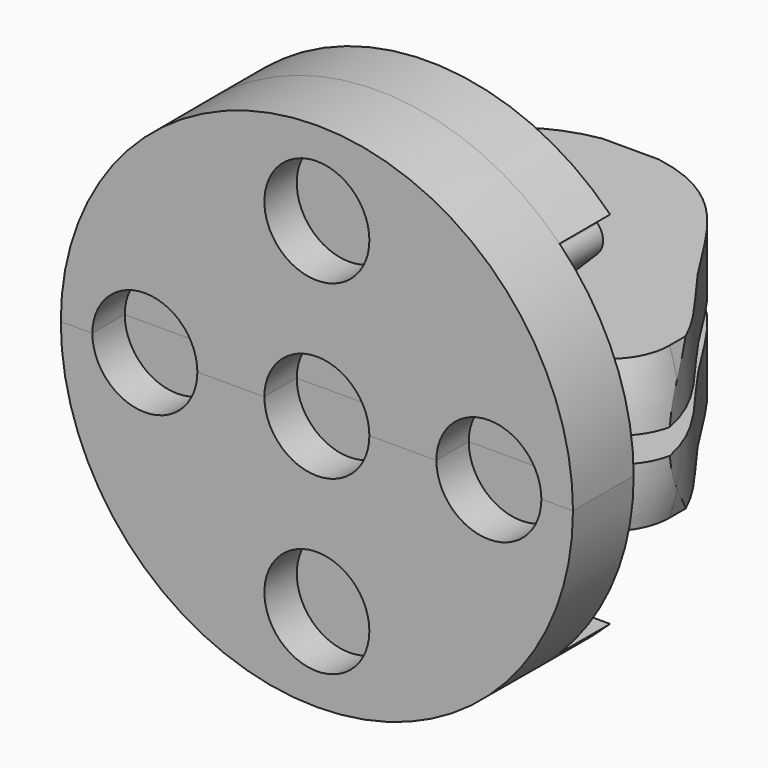
from build123d import *

# Parameters (mm, degrees)
F0_R           = 20.25
F1_DEPTH       = 6
F2_R           = 4.15
F3_DEPTH       = 3.2
F5_DEPTH       = 5
F7_DEPTH       = 25
F9_DEPTH       = 5
F11_DEPTH      = 25
F13_DEPTH      = 25
F15_W          = 1
F15_H          = 28.5
F16_DEPTH      = 20.251
F16_DEPTH_BACK = 20.251
F17_R          = 5


with BuildPart() as f1:
    # F0 (on Front) → F1 (new body)
    with BuildSketch(Plane.XZ):
        Circle(F0_R)
    extrude(amount=F1_DEPTH)

    # F2 (on face) → F3 (cut)
    with BuildSketch(Plane.XZ.offset(6)):
        Circle(F2_R)
        with Locations((0, 13.6)):
            Circle(F2_R)
        with Locations((-13.6, 0)):
            Circle(F2_R)
        with Locations((0, -13.6)):
            Circle(F2_R)
        with Locations((13.6, 0)):
            Circle(F2_R)
    extrude(amount=-F3_DEPTH, mode=Mode.SUBTRACT)

    # F4 (on face) → F5 (join)
    with BuildSketch(Plane(origin=(0, 0, 0), x_dir=(-1, 0, 0), z_dir=(0, 1, 0))):
        with BuildLine():
            Line((-14.3874945699, 14.25), (14.3874945699, 14.25))
            ThreePointArc((14.3874945699, 14.25), (0, 20.25), (-14.3874945699, 14.25))
        make_face()
    extrude(amount=F5_DEPTH)

    # F6 (on face) → F7 (join)
    with BuildSketch(Plane(origin=(0, 0, 0), x_dir=(-1, 0, 0), z_dir=(0, 1, 0))):
        with BuildLine():
            ThreePointArc((19.224008427, 1), (18.9233954938, 3.5309493037), (18.2910497238, 6))
            Line((18.2910497238, 6), (-18.2910497238, 6))
            ThreePointArc((-18.2910497238, 6), (-18.9233954938, 3.5309493037), (-19.224008427, 1))
            Line((-19.224008427, 1), (19.224008427, 1))
        make_face()
    extrude(amount=F7_DEPTH)

    # F8 (on face) → F9 (join, through all)
    with BuildSketch(Plane(origin=(0, 0, 0), x_dir=(-1, 0, 0), z_dir=(0, 1, 0))):
        with BuildLine():
            Line((-12.4444750853, 14.25), (-13.3874945699, 13.3069805153))
            ThreePointArc((-13.3874945699, 13.3069805153), (-13.8268343982, 12.2463203436), (-13.3874945699, 11.1856601718))
            Line((-13.3874945699, 11.1856601718), (-11.2661742264, 9.0643398282))
            ThreePointArc((-11.2661742264, 9.0643398282), (-10.8268343982, 8.0036796564), (-11.2661742264, 6.9430194847))
            Line((-11.2661742264, 6.9430194847), (-12.209193711, 6))
            Line((-12.209193711, 6), (-10.0940630632, 6))
            ThreePointArc((-10.0940630632, 6), (-9.3279287917, 8.0847053542), (-10.2055140546, 10.125))
            Line((-10.2055140546, 10.125), (-11.7965043123, 11.7159902577))
            ThreePointArc((-11.7965043123, 11.7159902577), (-12.0161742264, 12.2463203436), (-11.7965043123, 12.7766504294))
            Line((-11.7965043123, 12.7766504294), (-10.3231547417, 14.25))
            Line((-10.3231547417, 14.25), (-12.4444750853, 14.25))
        make_face()
        with BuildLine():
            Line((-8.9444750853, 14.25), (-9.8874945699, 13.3069805153))
            ThreePointArc((-9.8874945699, 13.3069805153), (-10.3268343982, 12.2463203436), (-9.8874945699, 11.1856601718))
            Line((-9.8874945699, 11.1856601718), (-7.7661742264, 9.0643398282))
            ThreePointArc((-7.7661742264, 9.0643398282), (-7.3268343982, 8.0036796564), (-7.7661742264, 6.9430194847))
            Line((-7.7661742264, 6.9430194847), (-8.709193711, 6))
            Line((-8.709193711, 6), (-6.5940630632, 6))
            ThreePointArc((-6.5940630632, 6), (-5.8279287917, 8.0847053542), (-6.7055140546, 10.125))
            Line((-6.7055140546, 10.125), (-8.2965043123, 11.7159902577))
            ThreePointArc((-8.2965043123, 11.7159902577), (-8.5161742264, 12.2463203436), (-8.2965043123, 12.7766504294))
            Line((-8.2965043123, 12.7766504294), (-6.8231547417, 14.25))
            Line((-6.8231547417, 14.25), (-8.9444750853, 14.25))
        make_face()
        with BuildLine():
            Line((-5.4444750853, 14.25), (-6.3874945699, 13.3069805153))
            ThreePointArc((-6.3874945699, 13.3069805153), (-6.8268343982, 12.2463203436), (-6.3874945699, 11.1856601718))
            Line((-6.3874945699, 11.1856601718), (-4.2661742264, 9.0643398282))
            ThreePointArc((-4.2661742264, 9.0643398282), (-3.8268343982, 8.0036796564), (-4.2661742264, 6.9430194847))
            Line((-4.2661742264, 6.9430194847), (-5.209193711, 6))
            Line((-5.209193711, 6), (-3.0940630632, 6))
            ThreePointArc((-3.0940630632, 6), (-2.3279287917, 8.0847053542), (-3.2055140546, 10.125))
            Line((-3.2055140546, 10.125), (-4.7965043123, 11.7159902577))
            ThreePointArc((-4.7965043123, 11.7159902577), (-5.0161742264, 12.2463203436), (-4.7965043123, 12.7766504294))
            Line((-4.7965043123, 12.7766504294), (-3.3231547417, 14.25))
            Line((-3.3231547417, 14.25), (-5.4444750853, 14.25))
        make_face()
        with BuildLine():
            Line((8.709193711, 6), (7.7661742264, 6.9430194847))
            ThreePointArc((7.7661742264, 6.9430194847), (7.3268343982, 8.0036796564), (7.7661742264, 9.0643398282))
            Line((7.7661742264, 9.0643398282), (9.8874945699, 11.1856601718))
            ThreePointArc((9.8874945699, 11.1856601718), (10.3268343982, 12.2463203436), (9.8874945699, 13.3069805153))
            Line((9.8874945699, 13.3069805153), (8.9444750853, 14.25))
            Line((8.9444750853, 14.25), (6.8231547417, 14.25))
            Line((6.8231547417, 14.25), (8.2965043123, 12.7766504294))
            ThreePointArc((8.2965043123, 12.7766504294), (8.5161742264, 12.2463203436), (8.2965043123, 11.7159902577))
            Line((8.2965043123, 11.7159902577), (6.7055140546, 10.125))
            ThreePointArc((6.7055140546, 10.125), (5.8279287917, 8.0847053542), (6.5940630632, 6))
            Line((6.5940630632, 6), (8.709193711, 6))
        make_face()
        with BuildLine():
            Line((11.2661742264, 9.0643398282), (13.3874945699, 11.1856601718))
            ThreePointArc((13.3874945699, 11.1856601718), (13.8268343982, 12.2463203436), (13.3874945699, 13.3069805153))
            Line((13.3874945699, 13.3069805153), (12.4444750853, 14.25))
            Line((12.4444750853, 14.25), (10.3231547417, 14.25))
            Line((10.3231547417, 14.25), (11.7965043123, 12.7766504294))
            ThreePointArc((11.7965043123, 12.7766504294), (12.0161742264, 12.2463203436), (11.7965043123, 11.7159902577))
            Line((11.7965043123, 11.7159902577), (10.2055140546, 10.125))
            ThreePointArc((10.2055140546, 10.125), (9.3279287917, 8.0847053542), (10.0940630632, 6))
            Line((10.0940630632, 6), (12.209193711, 6))
            Line((12.209193711, 6), (11.2661742264, 6.9430194847))
            ThreePointArc((11.2661742264, 6.9430194847), (10.8268343982, 8.0036796564), (11.2661742264, 9.0643398282))
        make_face()
        with BuildLine():
            Line((5.209193711, 6), (4.2661742264, 6.9430194847))
            ThreePointArc((4.2661742264, 6.9430194847), (3.8268343982, 8.0036796564), (4.2661742264, 9.0643398282))
            Line((4.2661742264, 9.0643398282), (6.3874945699, 11.1856601718))
            ThreePointArc((6.3874945699, 11.1856601718), (6.8268343982, 12.2463203436), (6.3874945699, 13.3069805153))
            Line((6.3874945699, 13.3069805153), (5.4444750853, 14.25))
            Line((5.4444750853, 14.25), (3.3231547417, 14.25))
            Line((3.3231547417, 14.25), (4.7965043123, 12.7766504294))
            ThreePointArc((4.7965043123, 12.7766504294), (5.0161742264, 12.2463203436), (4.7965043123, 11.7159902577))
            Line((4.7965043123, 11.7159902577), (3.2055140546, 10.125))
            ThreePointArc((3.2055140546, 10.125), (2.3279287917, 8.0847053542), (3.0940630632, 6))
            Line((3.0940630632, 6), (5.209193711, 6))
        make_face()
    extrude(amount=F9_DEPTH)

    # F10 (on face) → F11 (cut)
    with BuildSketch(Plane(origin=(0, 0, 1), x_dir=(1, 0, 0), z_dir=(0, 0, -1))):
        with BuildLine():
            Line((19.224008427, -25), (19.224008427, -4.3374532834))
            add(Edge.make_bspline(
                [(19.224008427, -4.3374532834), (18.6524717884, -8.6123837027), (12.8133743355, -14.1587521728), (8.6217096517, -23.9561277121), (2.2285901941, -25)],
                knots=[0, 0, 0, 0, 0.4683245432, 1, 1, 1, 1], degree=3))
            Line((2.2285901941, -25), (19.224008427, -25))
        make_face()
        with BuildLine():
            Line((-19.224008427, -25), (-2.2285901941, -25))
            add(Edge.make_bspline(
                [(-19.224008427, -4.3374532834), (-18.6524717884, -8.6123837027), (-12.8133743355, -14.1587521728), (-8.6217096517, -23.9561277121), (-2.2285901941, -25)],
                knots=[0, 0, 0, 0, 0.4683245432, 1, 1, 1, 1], degree=3))
            Line((-19.224008427, -4.3374532834), (-19.224008427, -25))
        make_face()
    extrude(amount=-F11_DEPTH, mode=Mode.SUBTRACT)

    # F12 (on face) → F13 (cut)
    with BuildSketch(Plane(origin=(0, 0, 0), x_dir=(-1, 0, 0), z_dir=(0, 1, 0))):
        with BuildLine():
            Line((20.25, 0), (-20.25, 0))
            ThreePointArc((-20.25, 0), (0, -20.25), (20.25, 0))
        make_face()
    extrude(amount=-F13_DEPTH, mode=Mode.SUBTRACT)

    # F14: F1 across face


with BuildPart() as f1_1:
    add(f1.part)
    add(f1.part.mirror(Plane(origin=(0, -2.3169728141, 0), x_dir=(1, 0, 0), z_dir=(0, 0, -1))))

    # F15 (on Right) → F16 (cut, two sides)
    with BuildSketch(Plane.YZ) as f16_sk:
        with Locations((0.5, 0)):
            Rectangle(F15_W, F15_H)
    extrude(amount=-F16_DEPTH, mode=Mode.SUBTRACT)
    extrude(f16_sk.sketch, amount=F16_DEPTH_BACK, mode=Mode.SUBTRACT)

    # F17
    f17_edges = [f1_1.edges().sort_by_distance(p)[0] for p in [
        (18.923395, 1, 3.530949),
        (18.923395, 1, -3.530949),
        (-18.923395, 1, -3.530949),
        (-18.923395, 1, 3.530949),
    ]]
    fillet(f17_edges, radius=F17_R)


solid = f1_1.part
